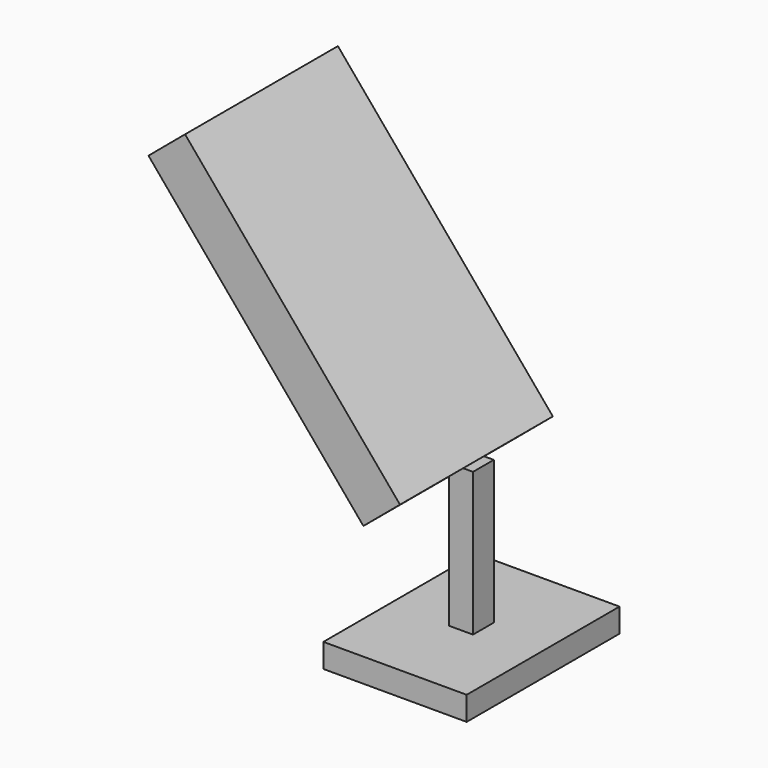
from build123d import *

# Parameters (mm, degrees)
F0_W     = 38.1
F0_H     = 50.8
F1_DEPTH = 6.35
F2_W     = 6.35
F2_H     = 6.910296
F3_DEPTH = 38.1
F6_W     = 50.8
F6_H     = 88.9
F7_DEPTH = 12.7


with BuildPart() as f1:
    # F0 (on Top) → F1 (new body)
    with BuildSketch(Plane.XY):
        Rectangle(F0_W, F0_H)
    extrude(amount=F1_DEPTH)

    # F2 (on face) → F3 (join)
    with BuildSketch(Plane.XY.offset(6.35)):
        Rectangle(F2_W, F2_H)
    extrude(amount=F3_DEPTH)

    # F6 (on face) → F7 (join)
    with BuildSketch(Plane(origin=(23.750519, 0, 19.929052), x_dir=(0, -1, 0), z_dir=(-0.766044, 0, -0.642788))):
        with Locations((0.969407, 78.143354)):
            Rectangle(F6_W, F6_H)
    extrude(amount=F7_DEPTH)


solid = f1.part
